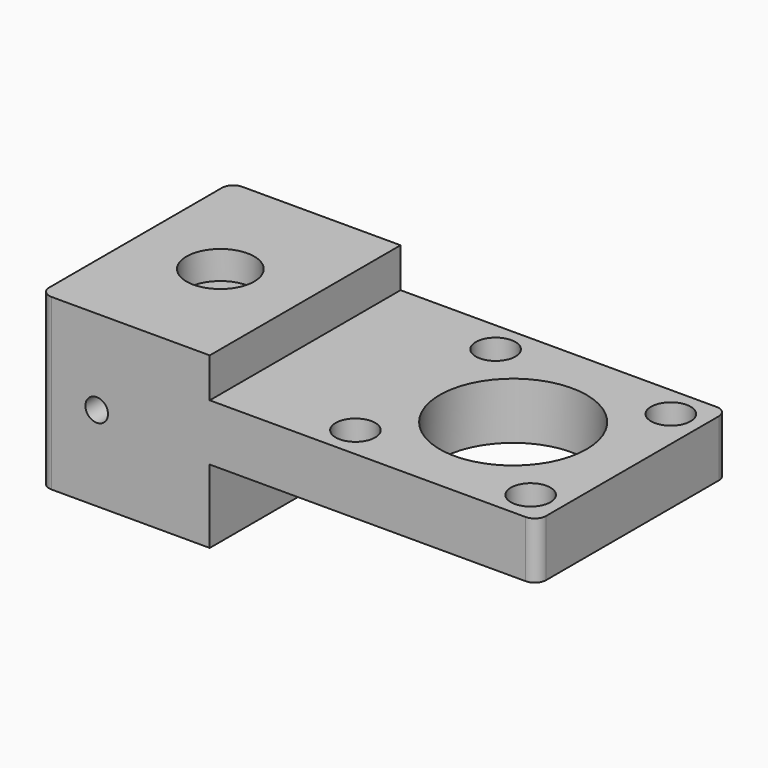
from build123d import *

# Parameters (mm, degrees)
F0_R      = 2.125
F0_R_2    = 3.5
F0_R_3    = 13
F1_DEPTH  = 10
F2_W      = 30
F2_H      = 42.2
F2_R      = 3.5
F3_DEPTH  = 7
F4_R      = 3.5
F5_DEPTH  = 5
F6_R      = 6
F7_DEPTH  = 5
F8_W      = 30
F8_H      = 42.2
F8_R      = 3.5
F9_DEPTH  = 13
F10_R     = 2
F11_DEPTH = 42.201
F12_R     = 2


with BuildPart() as f1:
    # F0 (on Top) → F1 (new body)
    with BuildSketch(Plane.XY):
        Polygon((21.1, 21.1), (0, 21.1), (-21.1, 21.1), (-66.8, 21.1), (-66.8, 0), (-66.8, -21.1), (-21.1, -21.1), (0, -21.1), (21.1, -21.1), (21.1, 0), align=None)
        with Locations((-15.5, -15.5)):
            Circle(F0_R, mode=Mode.SUBTRACT)
        with Locations((15.5, -15.5)):
            Circle(F0_R, mode=Mode.SUBTRACT)
        with Locations((-51.8, 0)):
            Circle(F0_R_2, mode=Mode.SUBTRACT)
        Circle(F0_R_3, mode=Mode.SUBTRACT)
        with Locations((-15.5, 15.5)):
            Circle(F0_R, mode=Mode.SUBTRACT)
        with Locations((15.5, 15.5)):
            Circle(F0_R, mode=Mode.SUBTRACT)
    extrude(amount=F1_DEPTH)

    # F2 (on face) → F3 (join)
    with BuildSketch(Plane.XY.offset(10)):
        with Locations((-51.8, 0)):
            Rectangle(F2_W, F2_H)
        with Locations((-51.8, 0)):
            Circle(F2_R, mode=Mode.SUBTRACT)
    extrude(amount=F3_DEPTH)

    # F4 (on face) → F5 (cut)
    with BuildSketch(Plane.XY.offset(10)):
        with Locations((-15.5, 15.5)):
            Circle(F4_R)
        with Locations((15.5, 15.5)):
            Circle(F4_R)
        with Locations((15.5, -15.5)):
            Circle(F4_R)
        with Locations((-15.5, -15.5)):
            Circle(F4_R)
    extrude(amount=-F5_DEPTH, mode=Mode.SUBTRACT)

    # F6 (on face) → F7 (cut)
    with BuildSketch(Plane.XY.offset(17)):
        with Locations((-51.8, 0)):
            Circle(F6_R)
    extrude(amount=-F7_DEPTH, mode=Mode.SUBTRACT)

    # F8 (on face) → F9 (join)
    with BuildSketch(Plane(origin=(0, 0, 0), x_dir=(1, 0, 0), z_dir=(0, 0, -1))):
        with Locations((-51.8, 0)):
            Rectangle(F8_W, F8_H)
        with Locations((-51.8, 0)):
            Circle(F8_R, mode=Mode.SUBTRACT)
    extrude(amount=F9_DEPTH)

    # F10 (on face) → F11 (cut, through all)
    with BuildSketch(Plane.XZ.offset(21.1)):
        with Locations((-56.8, 2)):
            Circle(F10_R)
    extrude(amount=-F11_DEPTH, mode=Mode.SUBTRACT)

    # F12
    f12_edges = [f1.edges().sort_by_distance(p)[0] for p in [
        (21.1, 21.1, 5),
        (21.1, -21.1, 5),
        (-66.8, -21.1, 2),
        (-66.8, 21.1, 2),
    ]]
    fillet(f12_edges, radius=F12_R)


solid = f1.part
